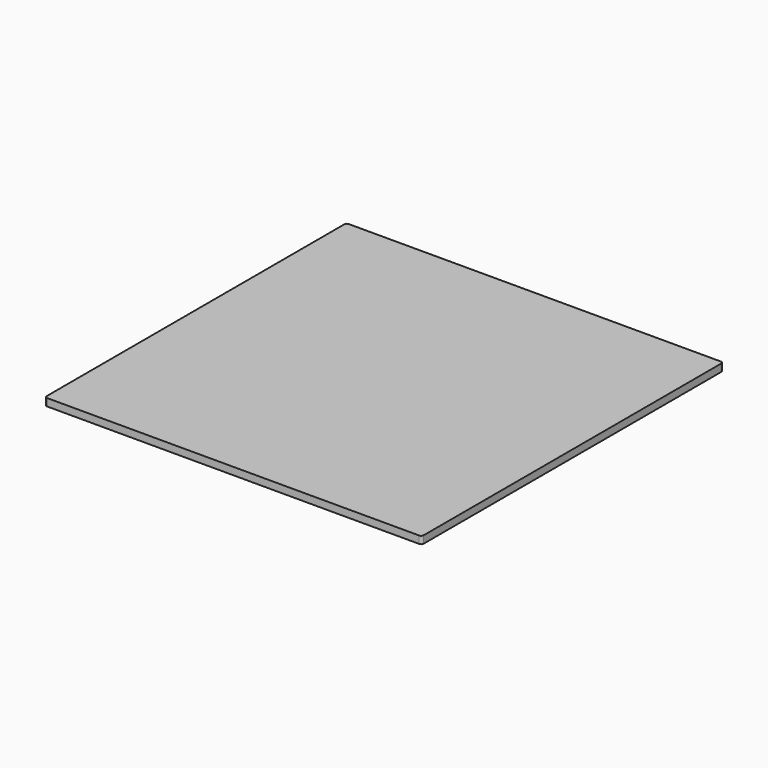
from build123d import *

# Parameters (mm, degrees)
PAD_DEPTH = 3


with BuildPart() as part:
    # Sketch → Pad (new body)
    with BuildSketch(Plane.XY):
        with BuildLine():
            ThreePointArc((-75.2, 76.2), (-75.907107, 75.907107), (-76.2, 75.2))
            Line((-76.2, -75.2), (-76.2, 75.2))
            ThreePointArc((-76.2, -75.2), (-75.907107, -75.907107), (-75.2, -76.2))
            Line((75.2, -76.2), (-75.2, -76.2))
            ThreePointArc((75.2, -76.2), (75.907107, -75.907107), (76.2, -75.2))
            Line((76.2, 75.2), (76.2, -75.2))
            ThreePointArc((76.2, 75.2), (75.907107, 75.907107), (75.2, 76.2))
            Line((-75.2, 76.2), (75.2, 76.2))
        make_face()
    extrude(amount=PAD_DEPTH)


solid = part.part
